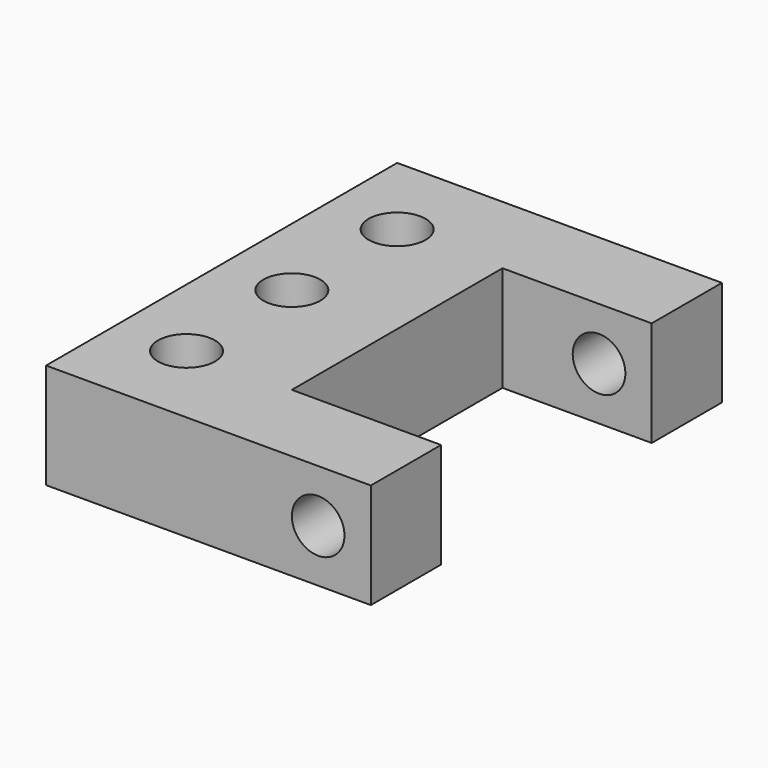
from build123d import *

# Parameters (mm, degrees)
F1_DEPTH = 12
F3_D     = 6.5
F5_D     = 6


with BuildPart() as f1:
    # F0 (on Top) → F1 (new body)
    with BuildSketch(Plane.XY):
        Polygon((-25.710834, 25), (-25.710834, 0), (-25.710834, -25), (11.289166, -25), (11.289166, -15), (-5.710834, -15), (-5.710834, 0), (-5.710834, 15), (11.289166, 15), (11.289166, 25), align=None)
    extrude(amount=F1_DEPTH)

    # F3 (through all)
    with Locations(Plane.XY.offset(12)):
        with Locations((-17.710834, -15), (-17.710834, 0), (-17.710834, 15)):
            Hole(F3_D / 2)

    # F5 (through all)
    with Locations(Plane.XZ.offset(25)):
        with Locations((5.289166, 6)):
            Hole(F5_D / 2)


solid = f1.part
